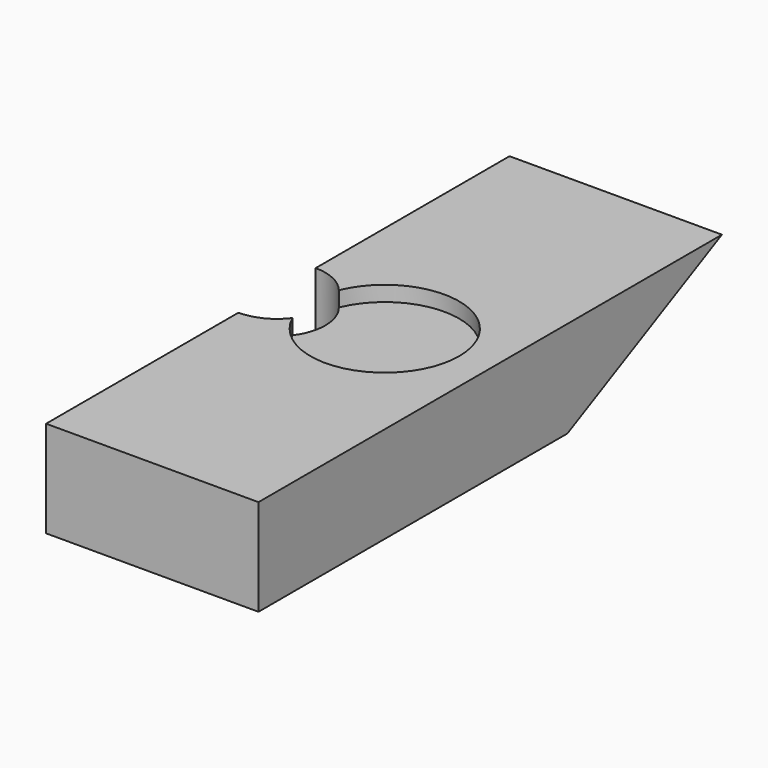
from build123d import *

# Parameters (mm, degrees)
F1_DEPTH = 27.94
F2_R     = 9.779
F3_DEPTH = 2
F5_DEPTH = 25.4


with BuildPart() as f1:
    # F0 (on Right) → F1 (new body)
    with BuildSketch(Plane.YZ):
        Polygon((0, 12.7), (0, 0), (50.8, 0), (76.2, 12.7), align=None)
    extrude(amount=F1_DEPTH)

    # F2 (on face) → F3 (cut)
    with BuildSketch(Plane.XY.offset(12.7)):
        with Locations((13.97, 38.227)):
            Circle(F2_R)
    extrude(amount=-F3_DEPTH, mode=Mode.SUBTRACT)

    # F4 (on Top) → F5 (cut)
    with BuildSketch(Plane.XY):
        with BuildLine():
            ThreePointArc((0, 44.323), (-6.35, 37.973), (0, 31.623))
            Line((0, 31.623), (0, 37.973))
            Line((0, 37.973), (0, 44.323))
        make_face()
        with BuildLine():
            Line((0, 37.973), (0, 31.623))
            ThreePointArc((0, 31.623), (4.490128, 33.482872), (6.35, 37.973))
            Line((6.35, 37.973), (0, 37.973))
        make_face()
        with BuildLine():
            Line((0, 44.323), (0, 37.973))
            Line((0, 37.973), (6.35, 37.973))
            ThreePointArc((6.35, 37.973), (4.490128, 42.463128), (0, 44.323))
        make_face()
    extrude(amount=F5_DEPTH, mode=Mode.SUBTRACT)


solid = f1.part
